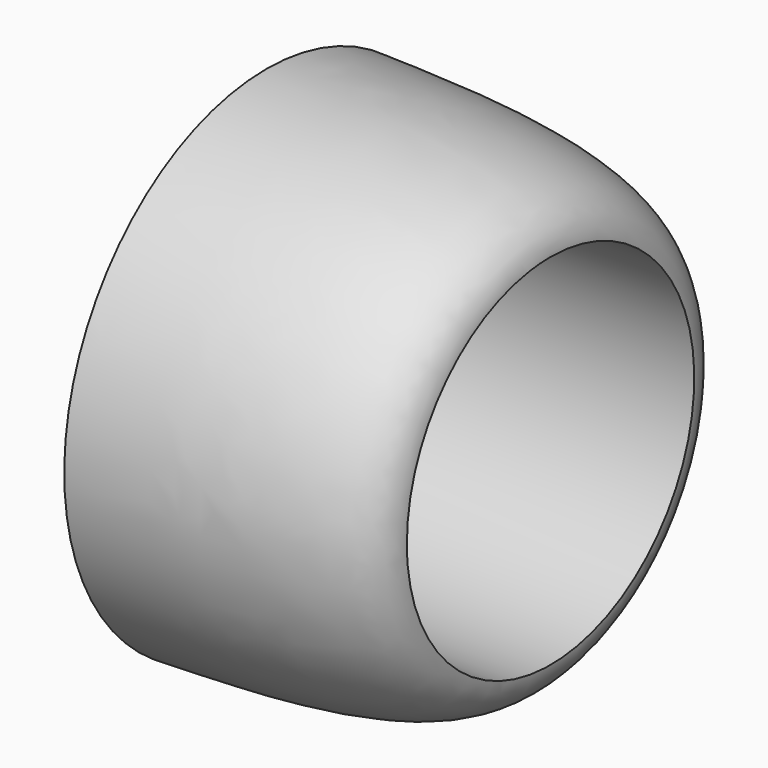
from build123d import *

# Parameters (mm, degrees)
F3_D = 71.12


with BuildPart() as f1:
    # F0 (on Front) → F1 (revolve)
    with BuildSketch(Plane.XZ):
        with BuildLine():
            Line((0, 50.047956), (0, 0))
            Line((0, 0), (56.240935, 0))
            Line((56.240935, 0), (56.240935, 35.484038))
            add(Edge.make_bspline(
                [(0, 50.047956), (15.795274, 49.554262), (55.99409, 49.801107), (56.240935, 35.484038)],
                knots=[0, 0, 0, 0, 58.096045, 58.096045, 58.096045, 58.096045], degree=3))
        make_face()
    revolve(axis=Axis((28.120467, 0, 0), (1, 0, 0)))

    # F3 (through all)
    with Locations(Plane(origin=(0, 0, 0), x_dir=(0, 1, 0), z_dir=(-1, 0, 0))):
        with Locations((0, 0)):
            Hole(F3_D / 2)


solid = f1.part
